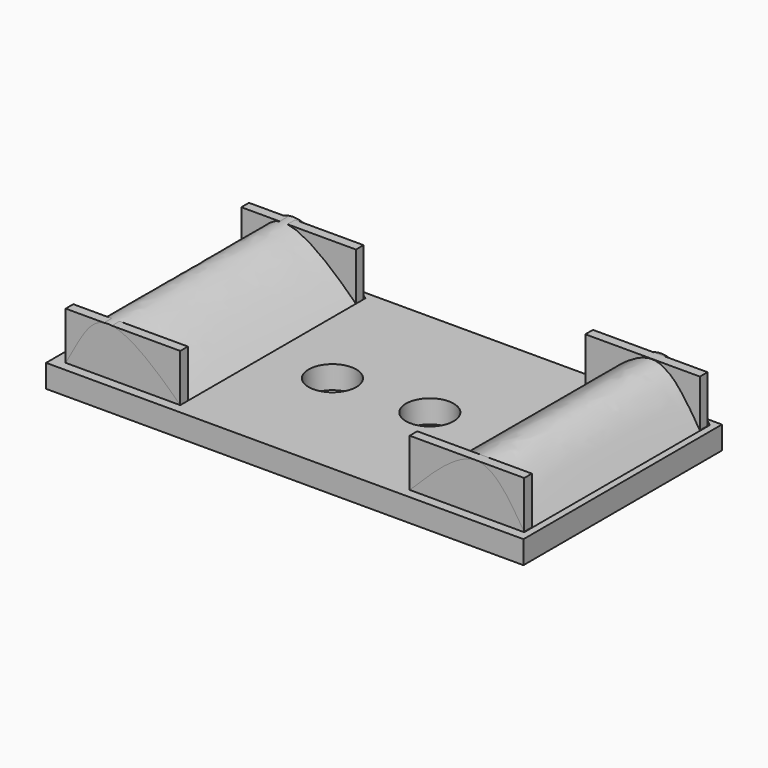
from build123d import *

# Parameters (mm, degrees)
F1_DEPTH = 3.048
F2_R     = 3.175
F3_DEPTH = 3.048
F4_W     = 15.24
F4_H     = 30.48
F5_DEPTH = 6.35
F6_W     = 62.0194016004
F6_H     = 27.94
F7_DEPTH = 6.35
F9_DEPTH = 30.8102


with BuildPart() as f1:
    # F0 (on Top) → F1 (new body)
    with BuildSketch(Plane.XY):
        Polygon((-16.8479376035, 33.0199948793), (-16.8295481792, 0), (46.6704518208, 0), (46.6520623965, 33.0199948793), align=None)
    extrude(amount=F1_DEPTH)

    # F2 (on face) → F3 (cut, through all)
    with BuildSketch(Plane.XY.offset(3.048)):
        with Locations((8.561614689, 15.875)):
            Circle(F2_R)
        with Locations((21.2614300895, 16.1923207167)):
            Circle(F2_R)
    extrude(amount=-F3_DEPTH, mode=Mode.SUBTRACT)

    # F4 (on face) → F5 (join)
    with BuildSketch(Plane.XY.offset(3.048)):
        with Locations((-7.62, 16.51)):
            Rectangle(F4_W, F4_H)
        with Locations((38.1352330548, 16.51)):
            Rectangle(F4_W, F4_H)
    extrude(amount=F5_DEPTH)

    # F6 (on face) → F7 (cut)
    with BuildSketch(Plane.XY.offset(9.398)):
        with Locations((15.7697008002, 16.51)):
            Rectangle(F6_W, F6_H)
    extrude(amount=-F7_DEPTH, mode=Mode.SUBTRACT)


with BuildPart() as f9:
    # F8 (on face) → F9 (new body)
    with BuildSketch(Plane.XZ.offset(-1.27)):
        with BuildLine():
            add(Edge.make_bspline(
                [(-15.24, 3.048), (-13.5387080671, 5.996791801), (-10.8639642482, 12.670134119), (-3.4730522253, 6.4656238418), (0, 3.048)],
                knots=[0, 0, 0, 0, 0.4517094767, 1, 1, 1, 1], degree=3))
            add(Edge.make_bspline(
                [(-15.24, 3.048), (-10.16, 3.048), (-5.08, 3.048), (0, 3.048)],
                knots=[0, 0, 0, 0, 15.24, 15.24, 15.24, 15.24], degree=3))
        make_face()
    extrude(amount=-F9_DEPTH)


with BuildPart() as f9b:
    # F8 (on face) → F9, piece 2 (new body)
    with BuildSketch(Plane.XZ.offset(-1.27)):
        with BuildLine():
            add(Edge.make_bspline(
                [(30.540110527, 3.0558435246), (33.7793064673, 6.2974918435), (39.9064786558, 12.5691793586), (43.8985103843, 6.0406424941), (45.7755699754, 3.0687376857)],
                knots=[0, 0, 0, 0, 0.5294114363, 1, 1, 1, 1], degree=3))
            add(Edge.make_bspline(
                [(45.7755699754, 3.0687376857), (40.7000767688, 3.0370605332), (35.6156037336, 3.087520677), (30.540110527, 3.0558435246)],
                knots=[0, 0, 0, 0, 15.2354649047, 15.2354649047, 15.2354649047, 15.2354649047], degree=3))
        make_face()
    extrude(amount=-F9_DEPTH)


solid = Compound([f1.part, f9.part, f9b.part])
